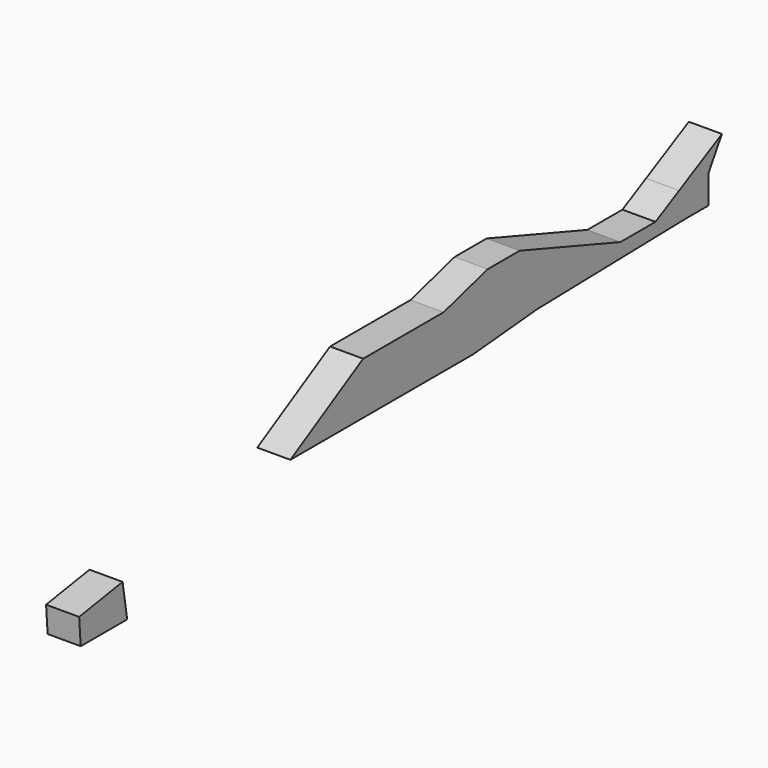
from build123d import *

# Parameters (mm, degrees)
F1_DEPTH = 3.048


with BuildPart() as f1:
    # F0 (on Right) → F1 (new body)
    with BuildSketch(Plane.YZ):
        Polygon((-16.975826, 44.534811), (0, 44.920288), (2.701345, 44.920288), (2.701345, 47.509335), (4.274687, 50.097101), (-0.651826, 47.509335), (-3.372731, 46.080116), (-7.409479, 46.080116), (-19.011062, 50.097101), (-22.701787, 50.097101), align=None)
        Polygon((-64.207064, 38.567966), (-64.733264, 41.828448), (-69.732599, 41.021619), (-69.555983, 38.567966), align=None)
        Polygon((-24.374168, 43.871749), (-16.975826, 44.534811), (-22.701787, 50.097101), (-27.7688, 48.666251), align=None)
        Polygon((-45.414668, 43.871749), (-24.374168, 43.871749), (-27.7688, 48.666251), (-37.034102, 48.666251), align=None)
    extrude(amount=F1_DEPTH)


solid = f1.part
